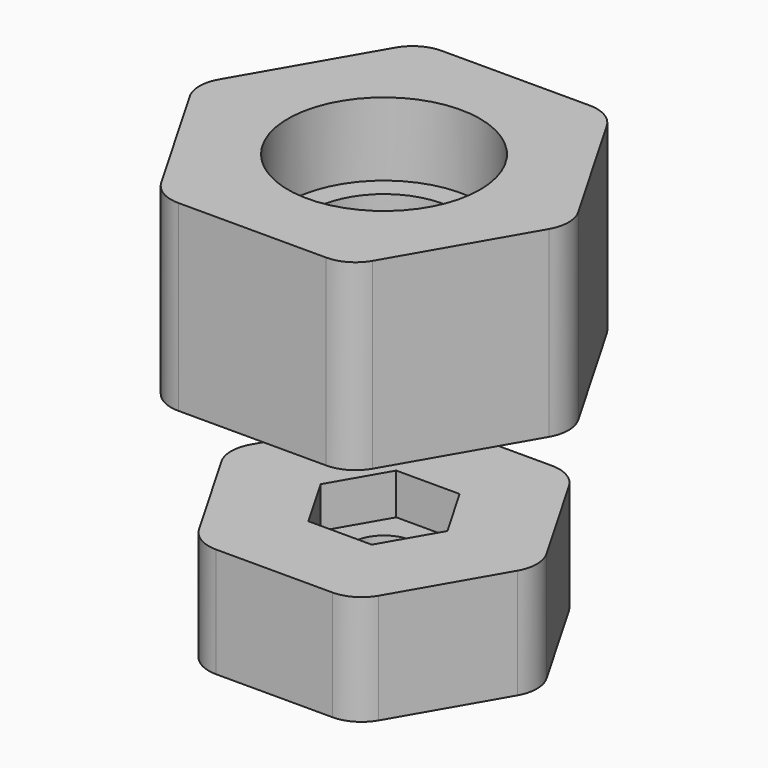
from build123d import *

# Parameters (mm, degrees)
F0_R     = 5.25
F1_DEPTH = 5
F0_R_2   = 4
F2_DEPTH = 1
F5_DEPTH = 3
F4_R     = 1.75
F6_DEPTH = 0.75
F7_R     = 2
F7_2_R   = 2


with BuildPart() as f1:
    # F0 (on Top) → F1 (new body, symmetric)
    with BuildSketch(Plane.XY):
        Polygon((5.1961524227, 9), (-5.1961524227, 9), (-10.3923048454, 0), (-5.1961524227, -9), (5.1961524227, -9), (10.3923048454, 0), align=None)
        Circle(F0_R, mode=Mode.SUBTRACT)
    extrude(amount=F1_DEPTH, both=True)

    # F0 (on Top) → F2 (join, symmetric)
    with BuildSketch(Plane.XY):
        Circle(F0_R)
        Circle(F0_R_2, mode=Mode.SUBTRACT)
    extrude(amount=F2_DEPTH, both=True)


with BuildPart() as f1_1:
    # F3: moved
    add(f1.part.moved(Location((0, 0, 15))))

    # F7
    f7_edges = [f1_1.edges().sort_by_distance(p)[0] for p in [
        (-5.196152, 9, 15),
        (5.196152, 9, 15),
        (-5.196152, -9, 15),
        (5.196152, -9, 15),
        (10.392305, 0, 15),
        (-10.392305, 0, 15),
    ]]
    fillet(f7_edges, radius=F7_R)


with BuildPart() as f5:
    # F4 (on Top) → F5 (new body, symmetric)
    with BuildSketch(Plane.XY):
        Polygon((-4.3301270189, -7.5), (4.3301270189, -7.5), (8.6602540378, 0), (4.3301270189, 7.5), (-4.3301270189, 7.5), (-8.6602540378, 0), align=None)
        Polygon((3.4641016151, 0), (1.7320508076, -3), (-1.7320508076, -3), (-3.4641016151, 0), (-1.7320508076, 3), (1.7320508076, 3), align=None, mode=Mode.SUBTRACT)
    extrude(amount=F5_DEPTH, both=True)

    # F4 (on Top) → F6 (join, symmetric)
    with BuildSketch(Plane.XY):
        Polygon((-1.7320508076, -3), (1.7320508076, -3), (3.4641016151, 0), (1.7320508076, 3), (-1.7320508076, 3), (-3.4641016151, 0), align=None)
        Circle(F4_R, mode=Mode.SUBTRACT)
    extrude(amount=F6_DEPTH, both=True)

    # F7#2
    f7_2_edges = [f5.edges().sort_by_distance(p)[0] for p in [
        (-4.330127, 7.5, 0),
        (4.330127, 7.5, 0),
        (-8.660254, 0, 0),
        (-4.330127, -7.5, 0),
        (4.330127, -7.5, 0),
        (8.660254, 0, 0),
    ]]
    fillet(f7_2_edges, radius=F7_2_R)


solid = Compound([f1_1.part, f5.part])
